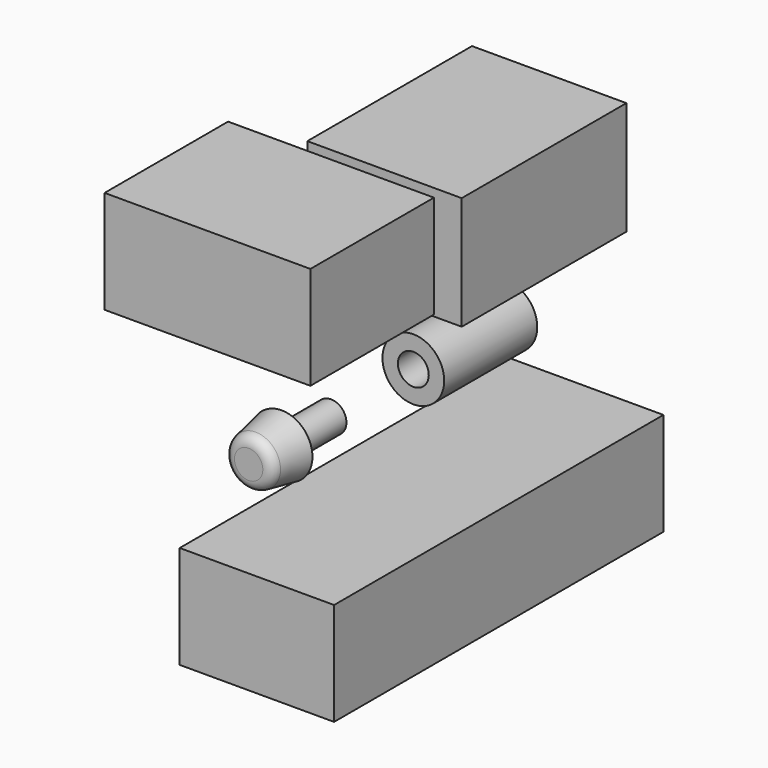
from build123d import *

# Parameters (mm, degrees)
F0_W      = 12
F0_H      = 3
F2_W      = 22.6
F2_H      = 3
F4_W      = 12
F4_H      = 1.5
F4_H_2    = 3
F5_DEPTH  = 20
F7_W      = 22.6
F7_H      = 3
F8_DEPTH  = 15
F10_R     = 2.1
F10_2_R   = 2.1
F11_W     = 38
F11_H     = 3
F11_W_2   = 24
F12_DEPTH = 15


with BuildPart() as f1:
    # F0 (on Right) → F1 (revolve)
    with BuildSketch(Plane.YZ):
        Polygon((-20, 0), (-12, 0), (-12, 3), (-12, 6), (-20, 4.5), align=None)
        with Locations((-6, 1.5)):
            Rectangle(F0_W, F0_H)
    revolve(axis=Axis((0, -6, 0), (0, -1, 0)))

    # F10#2
    f10_2_edges = [f1.edges().sort_by_distance(p)[0] for p in [
        (0, -20, -4.5),
    ]]
    fillet(f10_2_edges, radius=F10_2_R)


with BuildPart() as f3:
    # F2 (on Right) → F3 (revolve)
    with BuildSketch(Plane.YZ):
        with Locations((31.3, 4.5)):
            Rectangle(F2_W, F2_H)
    revolve(axis=Axis((0, 31.3, 0), (0, 1, 0)))


with BuildPart() as f5:
    # F4 (on Right) → F5 (new body, symmetric)
    with BuildSketch(Plane.YZ):
        Polygon((-30, 44), (-30, 34), (-20, 34), (-20, 38.5), (-12, 40), (-12, 37), (0, 37), (0, 44), align=None)
        Polygon((-30, 24), (0, 24), (0, 32.5), (-12, 32.5), (-12, 34), (-20, 34), (-30, 34), align=None)
        with Locations((-6, 33.25)):
            Rectangle(F4_W, F4_H)
        Polygon((-20, 38.5), (-20, 34), (-12, 34), (-12, 37), (-12, 40), align=None)
        with Locations((-6, 35.5)):
            Rectangle(F4_W, F4_H_2)
    extrude(amount=F5_DEPTH, both=True)

    # F4 (on Right) → F6 (revolve, cut)
    with BuildSketch(Plane.YZ):
        Polygon((-20, 38.5), (-20, 34), (-12, 34), (-12, 37), (-12, 40), align=None)
        with Locations((-6, 35.5)):
            Rectangle(F4_W, F4_H_2)
    revolve(axis=Axis((0, -15, 34), (0, -1, 0)), mode=Mode.SUBTRACT)

    # F10
    f10_edges = [f5.edges().sort_by_distance(p)[0] for p in [
        (0, -20, 29.5),
    ]]
    fillet(f10_edges, radius=F10_R)


with BuildPart() as f8:
    # F7 (on Right) → F8 (new body, symmetric)
    with BuildSketch(Plane.YZ):
        Polygon((53, 37), (13, 37), (13, 15), (53, 15), (53, 26), (30.4, 26), (30.4, 29), (30.4, 32), (53, 32), align=None)
        with Locations((41.7, 27.5)):
            Rectangle(F7_W, F7_H)
        with Locations((41.7, 30.5)):
            Rectangle(F7_W, F7_H)
    extrude(amount=F8_DEPTH, both=True)

    # F7 (on Right) → F9 (revolve, cut)
    with BuildSketch(Plane.YZ):
        with Locations((41.7, 30.5)):
            Rectangle(F7_W, F7_H)
    revolve(axis=Axis((0, 41.7, 26), (0, -1, 0)), mode=Mode.SUBTRACT)


with BuildPart() as f12:
    # F11 (on Right) → F12 (new body, symmetric)
    with BuildSketch(Plane.YZ):
        Polygon((24, -30), (0, -30), (-8, -30), (-18, -30), (-18, -40), (62, -40), (62, -30), align=None)
        with BuildLine():
            Line((-7.242535625, -25.8106339063), (0, -24))
            Line((0, -24), (62, -24))
            Line((62, -24), (62, -20))
            Line((62, -20), (-18, -20))
            Line((-18, -20), (-18, -30))
            Line((-18, -30), (-8, -30))
            Line((-8, -30), (-8, -26.7807764064))
            ThreePointArc((-8, -26.7807764064), (-7.788205438, -26.165364197), (-7.242535625, -25.8106339063))
        make_face()
        with Locations((43, -28.5)):
            Rectangle(F11_W, F11_H)
        Polygon((62, -24), (0, -24), (0, -27), (24, -27), (62, -27), align=None)
        with BuildLine():
            Line((0, -27), (0, -24))
            Line((0, -24), (-7.242535625, -25.8106339063))
            ThreePointArc((-7.242535625, -25.8106339063), (-7.788205438, -26.165364197), (-8, -26.7807764064))
            Line((-8, -26.7807764064), (-8, -30))
            Line((-8, -30), (0, -30))
            Line((0, -30), (0, -27))
        make_face()
        with Locations((12, -28.5)):
            Rectangle(F11_W_2, F11_H)
    extrude(amount=F12_DEPTH, both=True)

    # F11 (on Right) → F13 (revolve, cut)
    with BuildSketch(Plane.YZ):
        with BuildLine():
            Line((0, -27), (0, -24))
            Line((0, -24), (-7.242535625, -25.8106339063))
            ThreePointArc((-7.242535625, -25.8106339063), (-7.788205438, -26.165364197), (-8, -26.7807764064))
            Line((-8, -26.7807764064), (-8, -30))
            Line((-8, -30), (0, -30))
            Line((0, -30), (0, -27))
        make_face()
        with Locations((12, -28.5)):
            Rectangle(F11_W_2, F11_H)
        Polygon((62, -24), (0, -24), (0, -27), (24, -27), (62, -27), align=None)
    revolve(axis=Axis((0, 22, -30), (0, -1, 0)), mode=Mode.SUBTRACT)


solid = Compound([f1.part, f3.part, f5.part, f8.part, f12.part])
